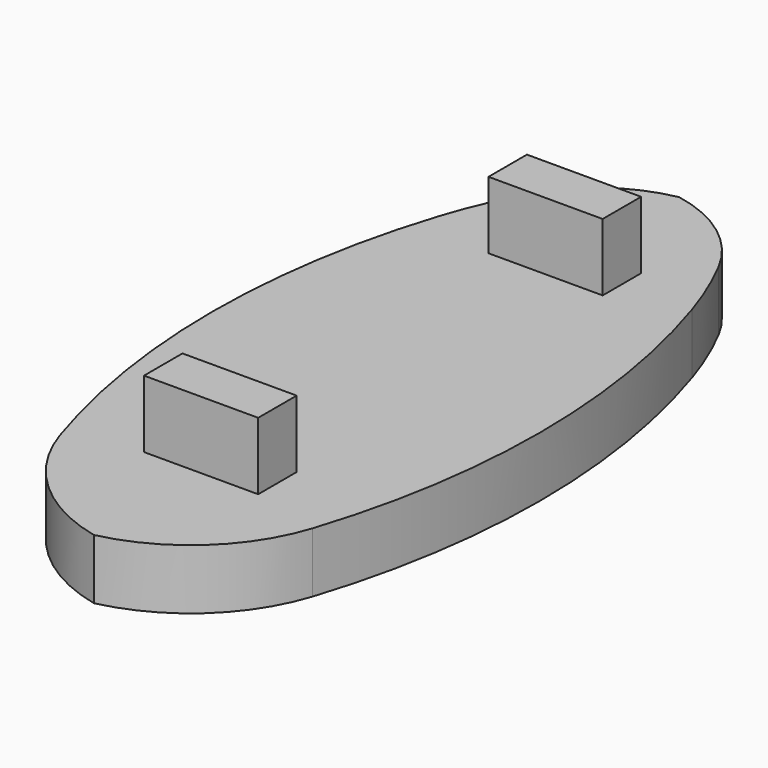
from build123d import *

# Parameters (mm, degrees)
F1_DEPTH = 5
F3_DEPTH = 5.6


with BuildPart() as f1:
    # F0 (on Top) → F1 (new body)
    with BuildSketch(Plane.XY):
        with BuildLine():
            ThreePointArc((10.507595, 42.815993), (9.425797, 45.734413), (8.107674, 48.55399))
            ThreePointArc((8.107674, 48.55399), (4.748236, 52.508255), (0, 54.600213))
            ThreePointArc((0, 54.600213), (-4.748236, 52.508255), (-8.107674, 48.55399))
            ThreePointArc((-8.107674, 48.55399), (-9.425797, 45.734413), (-10.507595, 42.815993))
            ThreePointArc((-10.507595, 42.815993), (-13.630387, 23.077428), (-10.507595, 3.338862))
            ThreePointArc((-10.507595, 3.338862), (-6.522182, -2.854452), (0, -6.275239))
            ThreePointArc((0, -6.275239), (6.522182, -2.854452), (10.507595, 3.338862))
            ThreePointArc((10.507595, 3.338862), (13.630387, 23.077428), (10.507595, 42.815993))
        make_face()
    extrude(amount=-F1_DEPTH)

    # F2 (on Top) → F3 (join)
    with BuildSketch(Plane.XY):
        Polygon((4.75, 8.868314), (0, 8.868314), (-4.75, 8.868314), (-4.75, 4.868314), (0, 4.868314), (4.75, 4.868314), align=None)
        Polygon((4.75, 44.695161), (0, 44.695161), (-4.75, 44.695161), (-4.75, 40.695161), (0, 40.695161), (4.75, 40.695161), align=None)
    extrude(amount=F3_DEPTH)


solid = f1.part
